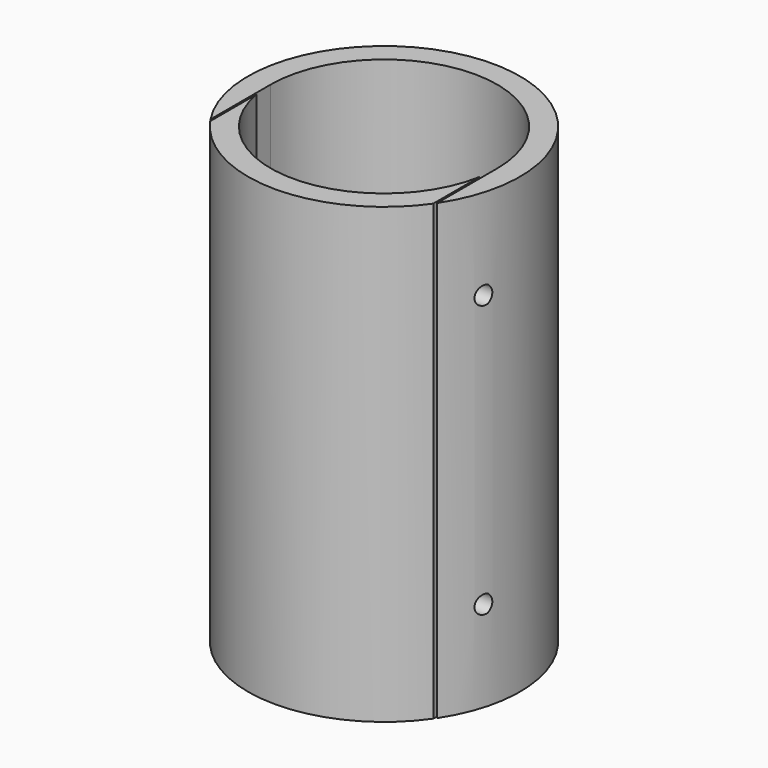
from build123d import *

# Parameters (mm, degrees)
F1_DEPTH = 50
F3_DEPTH = 50
F5_D     = 2
F5_DEPTH = 2
F5_TIP   = 0.600860619


with BuildPart() as f1:
    # F0 (on Top) → F1 (new body)
    with BuildSketch(Plane.XY):
        with BuildLine():
            Line((12.5, 0), (12.5, -8.2915619759))
            ThreePointArc((12.5, -8.2915619759), (0, 15), (-12.5, -8.2915619759))
            Line((-12.5, -8.2915619759), (-12.5, 0))
            ThreePointArc((-12.5, 0), (0, 12.5), (12.5, 0))
        make_face()
    extrude(amount=F1_DEPTH)

    # F5 (one way)
    with BuildSketch(Plane(origin=(12.5, 0, 0), x_dir=(0, -1, 0), z_dir=(-1, 0, 0))):
        with Locations((4.1457809879, 40), (4.1457809879, 10)):
            Circle(F5_D / 2)
    extrude(amount=-F5_DEPTH, mode=Mode.SUBTRACT)
    with Locations(Plane(origin=(12.5, 0, 0), x_dir=(0, -1, 0), z_dir=(-1, 0, 0))):
        with Locations((4.1457809879, 40), (4.1457809879, 10)):
            with Locations((0, 0, -(F5_DEPTH + F5_TIP / 2))):  # 118° drill point
                Cone(0, F5_D / 2, F5_TIP, mode=Mode.SUBTRACT)


with BuildPart() as f3:
    # F2 (on Top) → F3 (new body)
    with BuildSketch(Plane.XY):
        with BuildLine():
            Line((-12.3, -2.2271057451), (-12.3, -8.5854528128))
            ThreePointArc((-12.3, -8.5854528128), (0, -15), (12.3, -8.5854528128))
            Line((12.3, -8.5854528128), (12.3, -2.2271057451))
            ThreePointArc((12.3, -2.2271057451), (0, -12.5), (-12.3, -2.2271057451))
        make_face()
    extrude(amount=F3_DEPTH)


solid = Compound([f1.part, f3.part])
